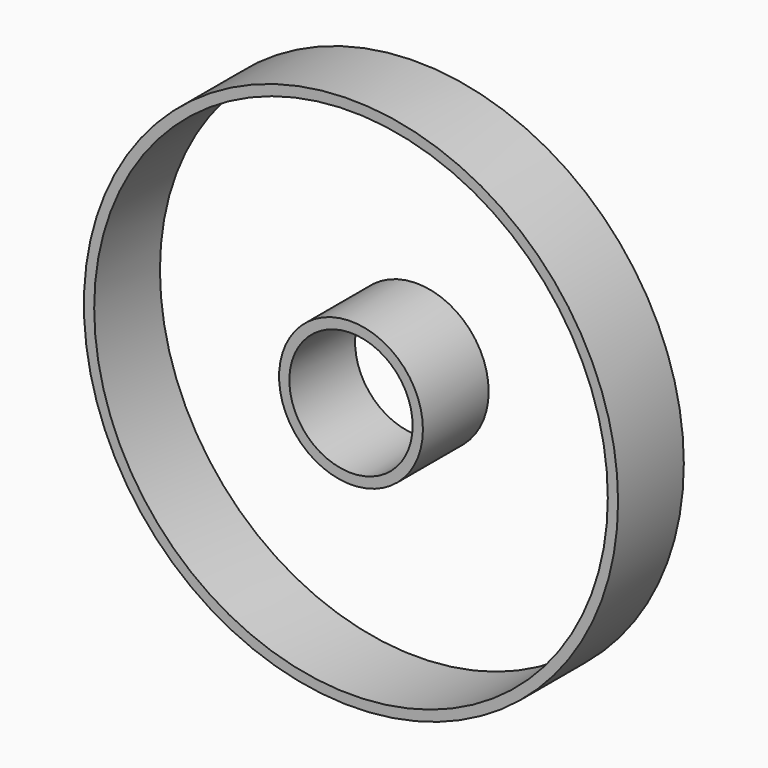
from build123d import *

# Parameters (mm, degrees)
F0_R     = 130
F0_R_2   = 125
F0_R_3   = 35
F0_R_4   = 30
F1_DEPTH = 40


with BuildPart() as f1:
    # F0 (on Front) → F1 (new body)
    with BuildSketch(Plane.XZ):
        Circle(F0_R)
        Circle(F0_R_2, mode=Mode.SUBTRACT)
        Circle(F0_R_3)
        Circle(F0_R_4, mode=Mode.SUBTRACT)
    extrude(amount=F1_DEPTH)


solid = f1.part
